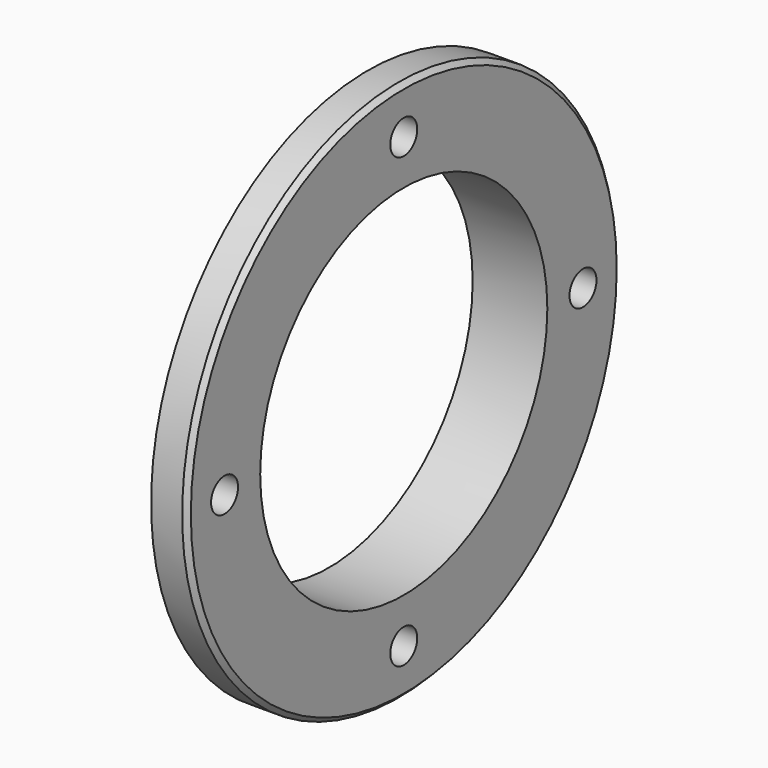
from build123d import *

# Parameters (mm, degrees)
F0_R     = 112.5
F1_DEPTH = 14.9
F2_R     = 80
F3_DEPTH = 16.1
F4_SIZE  = 2
F5_R     = 74.5
F6_DEPTH = 31.001
F8_D     = 14


with BuildPart() as f1:
    # F0 (on Right) → F1 (new body)
    with BuildSketch(Plane.YZ):
        Circle(F0_R)
    extrude(amount=F1_DEPTH)

    # F2 (on face) → F3 (join)
    with BuildSketch(Plane(origin=(0, 0, 0), x_dir=(0, -1, 0), z_dir=(-1, 0, 0))):
        Circle(F2_R)
    extrude(amount=F3_DEPTH)

    # F4
    f4_edges = [f1.edges().sort_by_distance(p)[0] for p in [
        (-16.1, 80, 0),
        (14.9, -112.5, 0),
    ]]
    chamfer(f4_edges, length=F4_SIZE)

    # F5 (on face) → F6 (cut, through all)
    with BuildSketch(Plane(origin=(-16.1, 0, 0), x_dir=(0, -1, 0), z_dir=(-1, 0, 0))):
        Circle(F5_R)
    extrude(amount=-F6_DEPTH, mode=Mode.SUBTRACT)

    # F8 (through all)
    with Locations(Plane.YZ.offset(14.9)):
        with Locations((0, -93), (-93, 0), (0, 93), (93, 0)):
            Hole(F8_D / 2)


solid = f1.part
